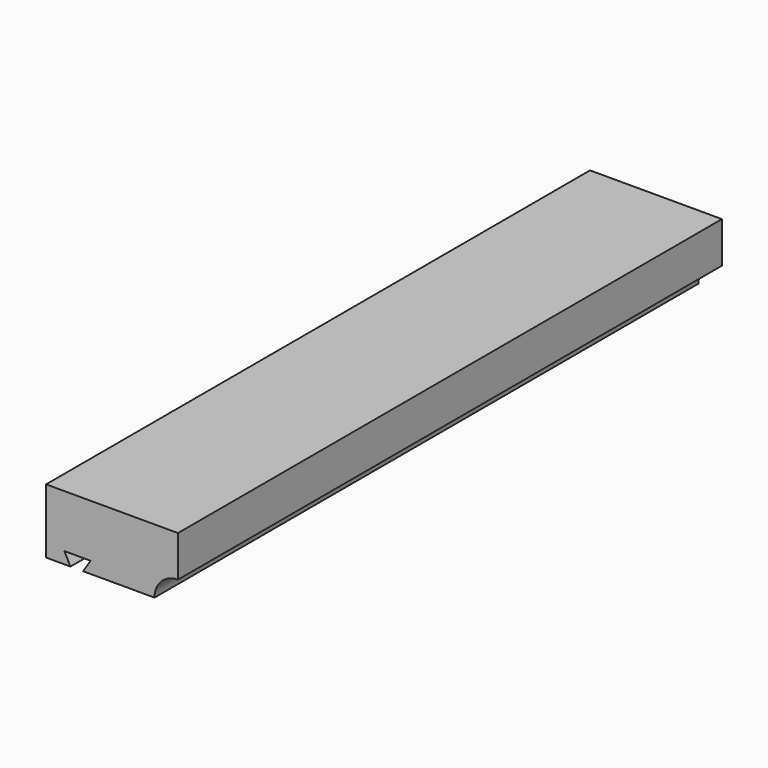
from build123d import *

# Parameters (mm, degrees)
F1_DEPTH = 232


with BuildPart() as f1:
    # F0 (on Front) → F1 (new body)
    with BuildSketch(Plane.XZ):
        with BuildLine():
            Line((22.5, -3), (22.5, 11))
            Line((22.5, 11), (-22.5, 11))
            Line((-22.5, 11), (-22.5, -11))
            Line((-22.5, -11), (-14.187015, -11))
            Line((-14.187015, -11), (-16.271666, -7.018649))
            Line((-16.271666, -7.018649), (-7.329346, -7.018649))
            Line((-7.329346, -7.018649), (-9.875086, -11))
            Line((-9.875086, -11), (14.5, -11))
            ThreePointArc((14.5, -11), (16.843146, -5.343146), (22.5, -3))
        make_face()
    extrude(amount=-F1_DEPTH)


solid = f1.part
